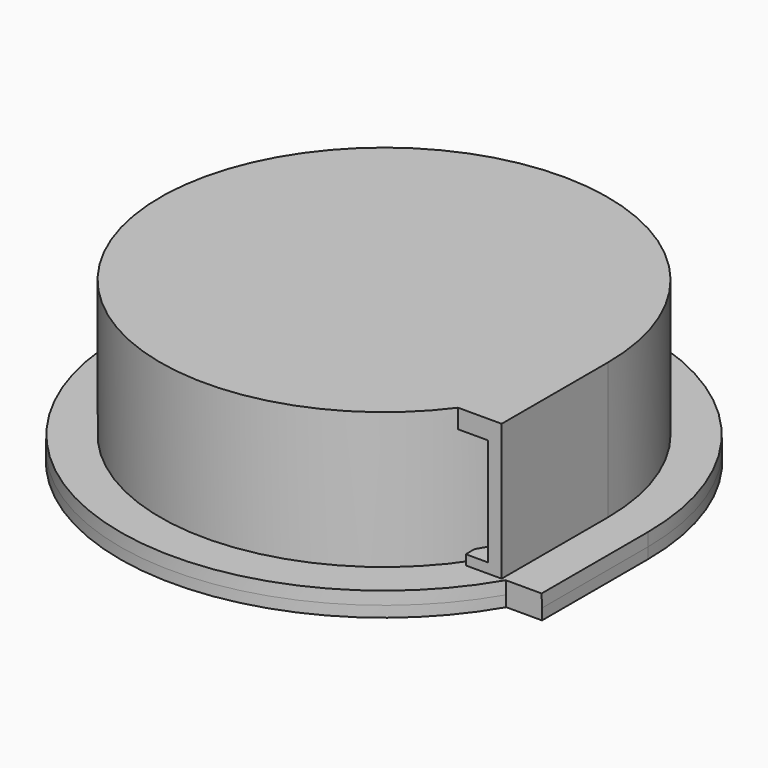
from build123d import *

# Parameters (mm, degrees)
F1_DEPTH = 25


with BuildPart() as f1:
    # F0 (on Front) → F1 (new body)
    with BuildSketch(Plane.XZ):
        Polygon((42.157266, 36.458336), (0, 36.458336), (0, 32.877419), (39.633732, 32.877419), (39.633732, 12.629625), (35.397731, 12.629625), (35.397731, 8.376406), (39.750192, 8.376406), (39.750192, 6.429029), (39.750192, 6.314471), (49.760994, 6.314471), (49.760994, 8.376406), (49.683991, 10.766225), (42.157266, 10.766225), (42.157266, 12.629625), (42.157266, 14.715909), align=None)
    extrude(amount=F1_DEPTH)

    # F0 (on Front) → F2 (revolve)
    with BuildSketch(Plane.XZ):
        Polygon((42.157266, 36.458336), (0, 36.458336), (0, 32.877419), (39.633732, 32.877419), (39.633732, 12.629625), (35.397731, 12.629625), (35.397731, 8.376406), (39.750192, 8.376406), (39.750192, 6.429029), (39.750192, 6.314471), (49.760994, 6.314471), (49.760994, 8.376406), (49.683991, 10.766225), (42.157266, 10.766225), (42.157266, 12.629625), (42.157266, 14.715909), align=None)
    revolve(axis=Axis((0, 0, 20.221634), (0, 0, -1)))


solid = f1.part
